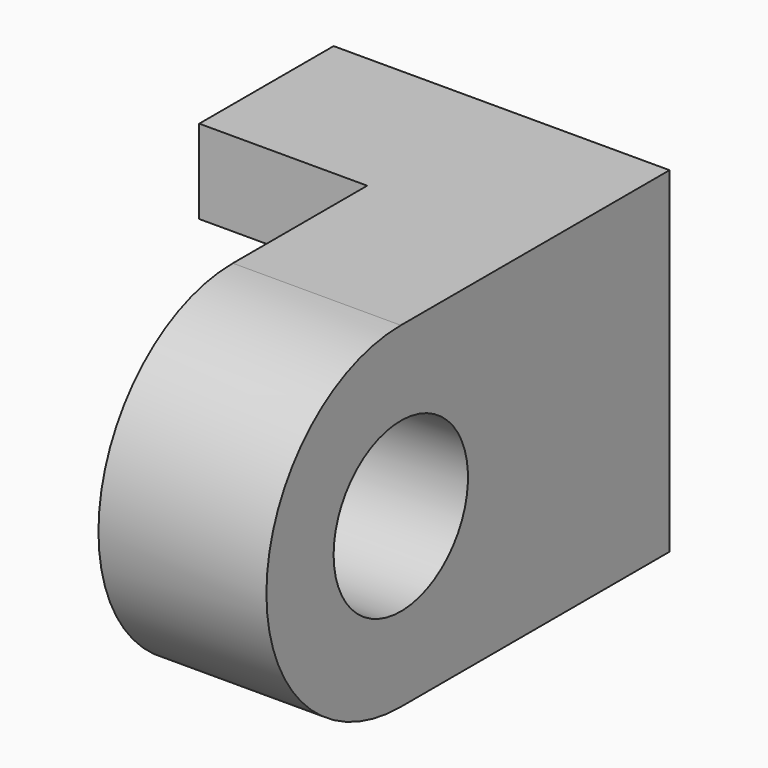
from build123d import *

# Parameters (mm, degrees)
F1_DEPTH = 25.4
F3_DEPTH = 6.35
F4_R     = 6.35
F5_DEPTH = 12.701


with BuildPart() as f1:
    # F0 (on Top) → F1 (new body)
    with BuildSketch(Plane.XY):
        Polygon((25.4, 0), (0, 0), (0, -12.7), (12.7, -12.7), (12.7, -66.37831), (25.4, -66.37831), align=None)
    extrude(amount=F1_DEPTH)

    # F2 (on face) → F3 (cut)
    with BuildSketch(Plane(origin=(0, 0, 0), x_dir=(0, -1, 0), z_dir=(-1, 0, 0))):
        Polygon((0, 19.05), (0, 12.7), (0, 6.35), (12.7, 6.35), (12.7, 19.05), align=None)
    extrude(amount=-F3_DEPTH, mode=Mode.SUBTRACT)

    # F4 (on face) → F5 (cut, through all)
    with BuildSketch(Plane(origin=(12.7, 0, 0), x_dir=(0, -1, 0), z_dir=(-1, 0, 0))):
        with Locations((25.4, 12.7)):
            Circle(F4_R)
        with BuildLine():
            ThreePointArc((25.4, 25.4), (38.1, 12.7), (25.4, 0))
            Line((25.4, 0), (66.37831, 0))
            Line((66.37831, 0), (66.37831, 25.4))
            Line((66.37831, 25.4), (25.4, 25.4))
        make_face()
    extrude(amount=-F5_DEPTH, mode=Mode.SUBTRACT)


solid = f1.part
